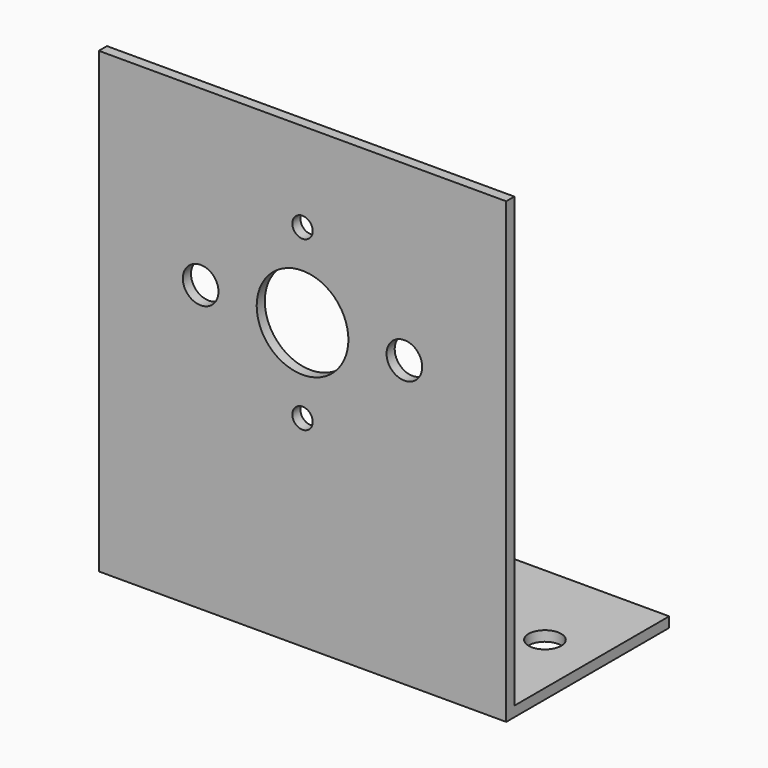
from build123d import *

# Parameters (mm, degrees)
F1_DEPTH = 40
F4_D     = 3.5
F5_D     = 9
F6_D     = 2
F7_D     = 3.2
F8_D     = 2.5


with BuildPart() as f1:
    # F0 (on Right) → F1 (new body)
    with BuildSketch(Plane.YZ):
        Polygon((0, 45), (0, 0), (20, 0), (20, 1), (1, 1), (1, 45), align=None)
    extrude(amount=F1_DEPTH)

    # F4 (through all)
    with Locations(Plane.XZ):
        with Locations((10, 28), (30, 28)):
            Hole(F4_D / 2)

    # F5 (through all)
    with Locations(Plane.XZ):
        with Locations((20, 28)):
            Hole(F5_D / 2)

    # F6 (through all)
    with Locations(Plane.XZ):
        with Locations((20, 19.75), (20, 36.25)):
            Hole(F6_D / 2)

    # F7 (through all)
    with Locations(Plane(origin=(0, 0, 0), x_dir=(1, 0, 0), z_dir=(0, 0, -1))):
        with Locations((5, -11), (20, -11), (35, -11)):
            Hole(F7_D / 2)

    # F8 (through all)
    with Locations(Plane(origin=(0, 0, 0), x_dir=(1, 0, 0), z_dir=(0, 0, -1))):
        with Locations((10, -11), (30, -11)):
            Hole(F8_D / 2)


solid = f1.part
